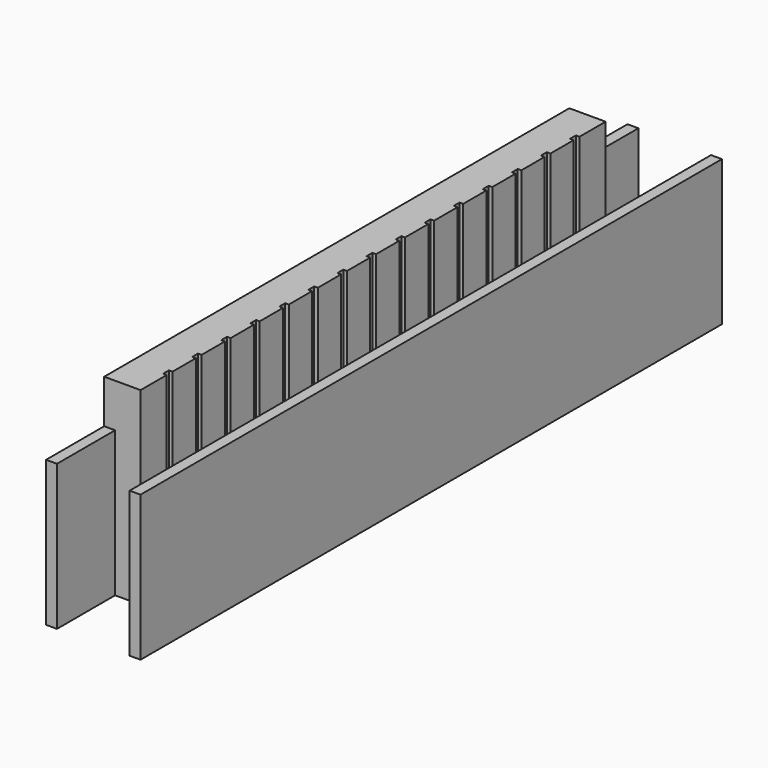
from build123d import *

# Parameters (mm, degrees)
BOX059_W         = 0.3
BOX059_H         = 20
BOX059_DEPTH     = 4
BOX061_W         = 0.1
BOX061_H         = 0.2
BOX061_DEPTH     = 3
ARRAY017_Y_COUNT = 15
ARRAY017_Y_PITCH = 1
BOX060_W         = 1
BOX060_H         = 16
BOX060_DEPTH     = 5.2


with BuildPart() as cube036:
    # Box059 → Box059 (new body)
    with BuildSketch(Plane(origin=(1, -10, 0.2), x_dir=(1, 0, 0), z_dir=(0, 0, 1))):
        with Locations((0.15, 10)):
            Rectangle(BOX059_W, BOX059_H)
    extrude(amount=BOX059_DEPTH)


with BuildPart() as cube006:
    # Clone030 base: copy of Cube036
    add(cube036.part)


with BuildPart() as cube006_1:
    # Clone030 placement: moved
    add(cube006.part.moved(Location((-2.3, 0, 0))))


with BuildPart() as array017:
    # Box061 → Box061 (new body)
    with BuildSketch(Plane(origin=(-0.4, -7.1, 2.4), x_dir=(1, 0, 0), z_dir=(0, 0, 1))):
        with Locations((0.05, 0.1)):
            Rectangle(BOX061_W, BOX061_H)
    extrude(amount=BOX061_DEPTH)

    # Array017 Y: Array017 ×15


with BuildPart() as array017_1:
    add(array017.part)
    with Locations(*[(0, i * ARRAY017_Y_PITCH, 0) for i in range(1, ARRAY017_Y_COUNT)]):
        add(array017.part)


with BuildPart() as cut012:
    # Box060 → Box060 (new body)
    with BuildSketch(Plane(origin=(-1.3, -8, 0.2), x_dir=(1, 0, 0), z_dir=(0, 0, 1))):
        with Locations((0.5, 8)):
            Rectangle(BOX060_W, BOX060_H)
    extrude(amount=BOX060_DEPTH)

    # Cut012: cut Array017
    add(array017_1.part, mode=Mode.SUBTRACT)


with BuildPart() as holder:
    # Fusion045 base: copy of Cube036
    add(cube036.part)

    # Fusion045: union Cube006, Cut012
    add(cube006_1.part)
    add(cut012.part)


solid = holder.part
